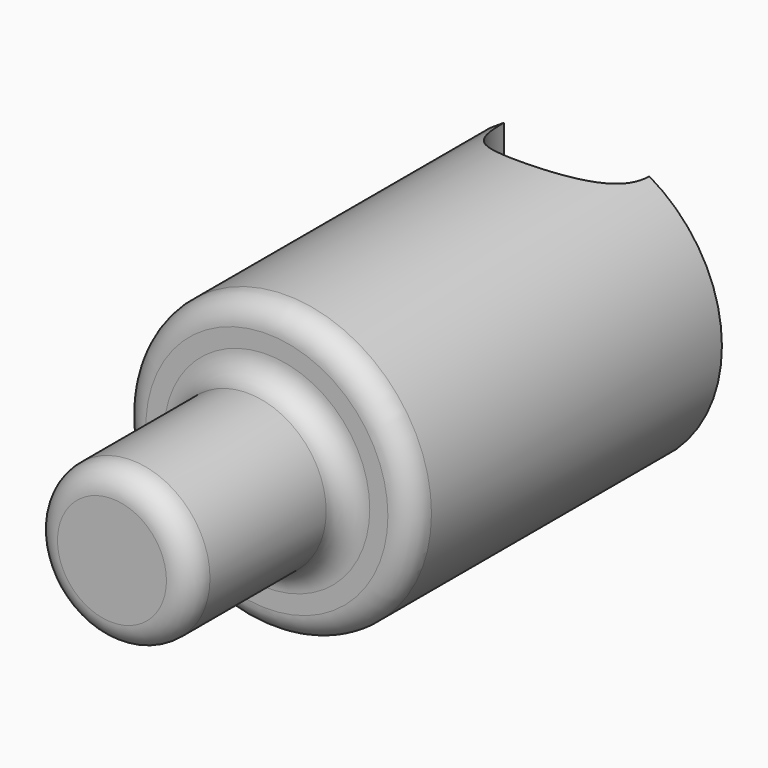
from build123d import *

# Parameters (mm, degrees)
SKETCH010_R          = 3
PAD002_DEPTH         = 8
SKETCH011_R          = 1.625
PAD003_DEPTH         = 4
SKETCH012_R          = 2.25
POCKET_DEPTH         = 7.001
SKETCH013_R          = 1.25
POCKET001_DEPTH      = 4.5
FILLET_R             = 0.5
FILLET001_R          = 1
FILLET002_R          = 0.3125
SKETCH014_R          = 1.5
POCKET002_DEPTH      = 2.801
POCKET002_DEPTH_BACK = 3.201


with BuildPart() as part:
    # Sketch010 → Pad002 (new body)
    with BuildSketch(Plane.XZ):
        with Locations((0, 0.2)):
            Circle(SKETCH010_R)
    extrude(amount=-PAD002_DEPTH)

    # Sketch011 → Pad003 (join)
    with BuildSketch(Plane.XZ):
        with Locations((0, 0.2)):
            Circle(SKETCH011_R)
    extrude(amount=PAD003_DEPTH)

    # Sketch012 → Pocket (cut, through all)
    with BuildSketch(Plane.XZ.offset(-1)):
        with Locations((0, 0.2)):
            Circle(SKETCH012_R)
    extrude(amount=-POCKET_DEPTH, mode=Mode.SUBTRACT)

    # Sketch013 → Pocket001 (cut)
    with BuildSketch(Plane.XZ.offset(-1)):
        with Locations((0, 0.2)):
            Circle(SKETCH013_R)
    extrude(amount=POCKET001_DEPTH, mode=Mode.SUBTRACT)

    # Fillet
    fillet_edges = [part.edges().sort_by_distance(p)[0] for p in [
        (-1.625, -4, 0.2),
        (-1.625, 0, 0.2),
        (-3, 0, 0.2),
    ]]
    fillet(fillet_edges, radius=FILLET_R)

    # Fillet001
    fillet001_edges = [part.edges().sort_by_distance(p)[0] for p in [
        (-1.25, -3.5, 0.2),
    ]]
    fillet(fillet001_edges, radius=FILLET001_R)

    # Fillet002
    fillet002_edges = [part.edges().sort_by_distance(p)[0] for p in [
        (-1.25, 1, 0.2),
        (-2.25, 1, 0.2),
    ]]
    fillet(fillet002_edges, radius=FILLET002_R)

    # Sketch014 → Pocket002 (cut, two sides)
    with BuildSketch(Plane.XY) as pocket002_sk:
        with Locations((0, 8)):
            Circle(SKETCH014_R)
    extrude(amount=-POCKET002_DEPTH, mode=Mode.SUBTRACT)
    extrude(pocket002_sk.sketch, amount=POCKET002_DEPTH_BACK, mode=Mode.SUBTRACT)


solid = part.part
